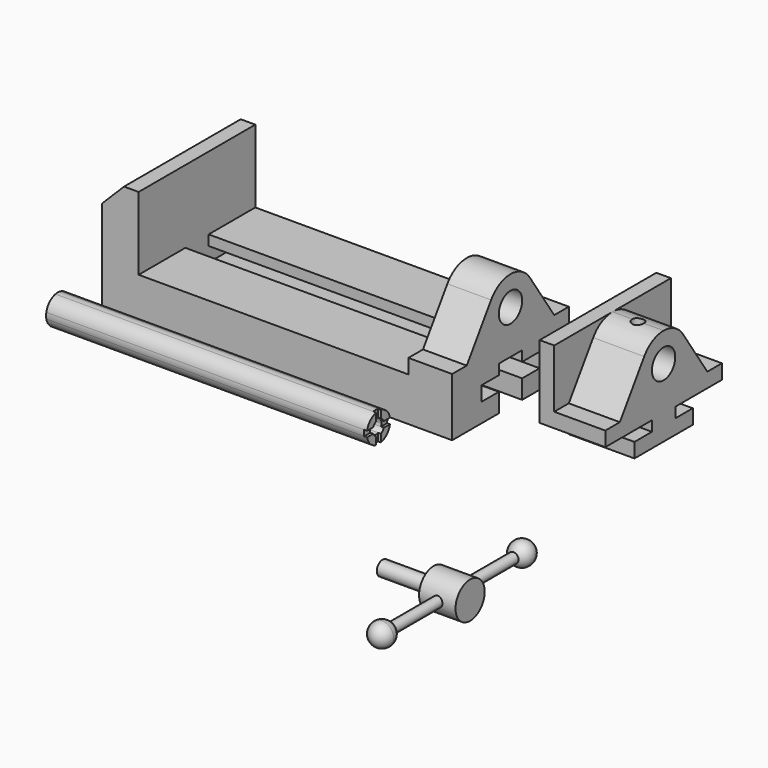
from build123d import *

# Parameters (mm, degrees)
F0_R      = 12.7
F1_DEPTH  = 38.1
F2_DEPTH  = 304.8
F3_W      = 127
F3_H      = 101.6
F4_DEPTH  = 31.75
F5_SIZE2  = 19.05
F5_SIZE   = 19.05
F7_R      = 12.7
F8_DEPTH  = 57.15
F9_DEPTH  = 12.7
F10_R     = 5.08
F11_DEPTH = 14.7602578338
F13_DEPTH = 279.4
F14_DEPTH = 25.4
F15_DEPTH = 2.54
F16_W     = 4.445
F16_H     = 15.875
F16_W_2   = 11.43
F16_W_3   = 44.45
F16_H_2   = 6.35


with BuildPart() as f1:
    # F0 (on Right) → F1 (new body)
    with BuildSketch(Plane.YZ):
        Polygon((0, 38.1), (0, 0), (50.8, 0), (50.8, 16.51), (31.75, 16.51), (31.75, 29.21), (50.8, 29.21), (50.8, 38.1), align=None)
        Polygon((76.2, 16.51), (76.2, 0), (127, 0), (127, 38.1), (76.2, 38.1), (76.2, 29.21), (95.25, 29.21), (95.25, 16.51), align=None)
        with BuildLine():
            Line((42.4065743945, 90.3501730104), (15.875, 50.8))
            Line((15.875, 50.8), (111.125, 50.8))
            Line((111.125, 50.8), (84.5934256055, 90.3501730104))
            ThreePointArc((84.5934256055, 90.3501730104), (63.5, 101.6), (42.4065743945, 90.3501730104))
        make_face()
        with Locations((63.5, 76.2)):
            Circle(F0_R, mode=Mode.SUBTRACT)
        Polygon((0, 50.8), (0, 38.1), (50.8, 38.1), (76.2, 38.1), (127, 38.1), (127, 50.8), (111.125, 50.8), (15.875, 50.8), align=None)
    extrude(amount=-F1_DEPTH)

    # F0 (on Right) → F2 (join)
    with BuildSketch(Plane.YZ):
        Polygon((76.2, 16.51), (76.2, 0), (127, 0), (127, 38.1), (76.2, 38.1), (76.2, 29.21), (95.25, 29.21), (95.25, 16.51), align=None)
        Polygon((0, 38.1), (0, 0), (50.8, 0), (50.8, 16.51), (31.75, 16.51), (31.75, 29.21), (50.8, 29.21), (50.8, 38.1), align=None)
    extrude(amount=-F2_DEPTH)

    # F3 (on face) → F4 (join)
    with BuildSketch(Plane(origin=(-304.8, 0, 0), x_dir=(0, -1, 0), z_dir=(-1, 0, 0))):
        with Locations((-63.5, 50.8)):
            Rectangle(F3_W, F3_H)
    extrude(amount=-F4_DEPTH)

    # F5
    f5_edges = [f1.edges().sort_by_distance(p)[0] for p in [
        (-304.8, 63.5, 101.6),
    ]]
    chamfer(f5_edges, length=F5_SIZE, length2=F5_SIZE2)


with BuildPart() as f8:
    # F7 (on offset) → F8 (new body)
    with BuildSketch(Plane.YZ.offset(76.2)):
        Polygon((111.125, 50.8), (15.875, 50.8), (0, 50.8), (0, 38.1), (50.8, 38.1), (76.2, 38.1), (127, 38.1), (127, 50.8), align=None)
        with BuildLine():
            Line((42.4065743945, 90.3501730104), (15.875, 50.8))
            Line((15.875, 50.8), (111.125, 50.8))
            Line((111.125, 50.8), (84.5934256055, 90.3501730104))
            ThreePointArc((84.5934256055, 90.3501730104), (75.4529411765, 98.6117647059), (63.5, 101.6))
            ThreePointArc((63.5, 101.6), (51.5470588235, 98.6117647059), (42.4065743945, 90.3501730104))
        make_face()
        with Locations((63.5, 76.2)):
            Circle(F7_R, mode=Mode.SUBTRACT)
        Polygon((76.2, 38.1), (50.8, 38.1), (50.8, 29.21), (31.75, 29.21), (31.75, 16.51), (50.8, 16.51), (76.2, 16.51), (95.25, 16.51), (95.25, 29.21), (76.2, 29.21), align=None)
    extrude(amount=F8_DEPTH)

    # F7 (on offset) → F9 (join)
    with BuildSketch(Plane.YZ.offset(76.2)):
        with BuildLine():
            Line((0, 50.8), (15.875, 50.8))
            Line((15.875, 50.8), (42.4065743945, 90.3501730104))
            ThreePointArc((42.4065743945, 90.3501730104), (51.5470588235, 98.6117647059), (63.5, 101.6))
            Line((63.5, 101.6), (0, 101.6))
            Line((0, 101.6), (0, 50.8))
        make_face()
        with BuildLine():
            Line((84.5934256055, 90.3501730104), (111.125, 50.8))
            Line((111.125, 50.8), (127, 50.8))
            Line((127, 50.8), (127, 101.6))
            Line((127, 101.6), (63.5, 101.6))
            ThreePointArc((63.5, 101.6), (75.4529411765, 98.6117647059), (84.5934256055, 90.3501730104))
        make_face()
    extrude(amount=F9_DEPTH)

    # F10 (on face) → F11 (cut, up to face)
    with BuildSketch(Plane.XY.offset(101.6)):
        with Locations((111.125, 63.5)):
            Circle(F10_R)
    extrude(amount=-F11_DEPTH, mode=Mode.SUBTRACT)


with BuildPart() as f13:
    # F12 (on Right) → F13 (new body)
    with BuildSketch(Plane.YZ):
        with BuildLine():
            ThreePointArc((-74.31538743, 44.9220035141), (-73.9192034755, 43.6793697515), (-73.7852585626, 42.3820035141))
            ThreePointArc((-73.7852585626, 42.3820035141), (-73.9192034755, 41.0846372766), (-74.31538743, 39.8420035141))
            Line((-74.31538743, 39.8420035141), (-67.6918506693, 39.8420035141))
            ThreePointArc((-67.6918506693, 39.8420035141), (-67.4995694194, 41.1055396966), (-67.4352585626, 42.3820035141))
            ThreePointArc((-67.4352585626, 42.3820035141), (-67.4995694194, 43.6584673315), (-67.6918506693, 44.9220035141))
            Line((-67.6918506693, 44.9220035141), (-74.31538743, 44.9220035141))
        make_face()
        with BuildLine():
            ThreePointArc((-77.5952585626, 48.2018746466), (-75.6451305021, 46.8721315746), (-74.31538743, 44.9220035141))
            Line((-74.31538743, 44.9220035141), (-67.6918506693, 44.9220035141))
            ThreePointArc((-67.6918506693, 44.9220035141), (-71.1550024415, 51.3622596351), (-77.5952585626, 54.8254114074))
            Line((-77.5952585626, 54.8254114074), (-77.5952585626, 48.2018746466))
        make_face()
        with BuildLine():
            Line((-67.6918506693, 39.8420035141), (-74.31538743, 39.8420035141))
            ThreePointArc((-74.31538743, 39.8420035141), (-75.6451305021, 37.8918754535), (-77.5952585626, 36.5621323815))
            Line((-77.5952585626, 36.5621323815), (-77.5952585626, 29.9385956207))
            ThreePointArc((-77.5952585626, 29.9385956207), (-71.1550024415, 33.401747393), (-67.6918506693, 39.8420035141))
        make_face()
        with BuildLine():
            ThreePointArc((-82.6752585626, 48.2018746466), (-80.1352585626, 48.7320035141), (-77.5952585626, 48.2018746466))
            Line((-77.5952585626, 48.2018746466), (-77.5952585626, 54.8254114074))
            ThreePointArc((-77.5952585626, 54.8254114074), (-80.1352585626, 55.0820035141), (-82.6752585626, 54.8254114074))
            Line((-82.6752585626, 54.8254114074), (-82.6752585626, 48.2018746466))
        make_face()
        with BuildLine():
            Line((-77.5952585626, 29.9385956207), (-77.5952585626, 36.5621323815))
            ThreePointArc((-77.5952585626, 36.5621323815), (-80.1352585626, 36.0320035141), (-82.6752585626, 36.5621323815))
            Line((-82.6752585626, 36.5621323815), (-82.6752585626, 29.9385956207))
            ThreePointArc((-82.6752585626, 29.9385956207), (-80.1352585626, 29.6820035141), (-77.5952585626, 29.9385956207))
        make_face()
        with BuildLine():
            ThreePointArc((-85.9551296952, 44.9220035141), (-84.6253866231, 46.8721315746), (-82.6752585626, 48.2018746466))
            Line((-82.6752585626, 48.2018746466), (-82.6752585626, 54.8254114074))
            ThreePointArc((-82.6752585626, 54.8254114074), (-89.1155146837, 51.3622596351), (-92.5786664559, 44.9220035141))
            Line((-92.5786664559, 44.9220035141), (-85.9551296952, 44.9220035141))
        make_face()
        with BuildLine():
            Line((-82.6752585626, 29.9385956207), (-82.6752585626, 36.5621323815))
            ThreePointArc((-82.6752585626, 36.5621323815), (-84.6253866231, 37.8918754535), (-85.9551296952, 39.8420035141))
            Line((-85.9551296952, 39.8420035141), (-92.5786664559, 39.8420035141))
            ThreePointArc((-92.5786664559, 39.8420035141), (-89.1155146837, 33.401747393), (-82.6752585626, 29.9385956207))
        make_face()
        with BuildLine():
            ThreePointArc((-85.9551296952, 39.8420035141), (-86.4852585626, 42.3820035141), (-85.9551296952, 44.9220035141))
            Line((-85.9551296952, 44.9220035141), (-92.5786664559, 44.9220035141))
            ThreePointArc((-92.5786664559, 44.9220035141), (-92.8352585626, 42.3820035141), (-92.5786664559, 39.8420035141))
            Line((-92.5786664559, 39.8420035141), (-85.9551296952, 39.8420035141))
        make_face()
        with BuildLine():
            ThreePointArc((-74.31538743, 39.8420035141), (-73.9192034755, 41.0846372766), (-73.7852585626, 42.3820035141))
            ThreePointArc((-73.7852585626, 42.3820035141), (-73.9192034755, 43.6793697515), (-74.31538743, 44.9220035141))
            ThreePointArc((-74.31538743, 44.9220035141), (-75.6451305021, 46.8721315746), (-77.5952585626, 48.2018746466))
            ThreePointArc((-77.5952585626, 48.2018746466), (-80.1352585626, 48.7320035141), (-82.6752585626, 48.2018746466))
            ThreePointArc((-82.6752585626, 48.2018746466), (-84.6253866231, 46.8721315746), (-85.9551296952, 44.9220035141))
            ThreePointArc((-85.9551296952, 44.9220035141), (-86.4852585626, 42.3820035141), (-85.9551296952, 39.8420035141))
            ThreePointArc((-85.9551296952, 39.8420035141), (-84.6253866231, 37.8918754535), (-82.6752585626, 36.5621323815))
            ThreePointArc((-82.6752585626, 36.5621323815), (-80.1352585626, 36.0320035141), (-77.5952585626, 36.5621323815))
            ThreePointArc((-77.5952585626, 36.5621323815), (-75.6451305021, 37.8918754535), (-74.31538743, 39.8420035141))
        make_face()
    extrude(amount=-F13_DEPTH)

    # F12 (on Right) → F14 (cut)
    with BuildSketch(Plane.YZ):
        with BuildLine():
            ThreePointArc((-74.31538743, 39.8420035141), (-73.9192034755, 41.0846372766), (-73.7852585626, 42.3820035141))
            ThreePointArc((-73.7852585626, 42.3820035141), (-73.9192034755, 43.6793697515), (-74.31538743, 44.9220035141))
            ThreePointArc((-74.31538743, 44.9220035141), (-75.6451305021, 46.8721315746), (-77.5952585626, 48.2018746466))
            ThreePointArc((-77.5952585626, 48.2018746466), (-80.1352585626, 48.7320035141), (-82.6752585626, 48.2018746466))
            ThreePointArc((-82.6752585626, 48.2018746466), (-84.6253866231, 46.8721315746), (-85.9551296952, 44.9220035141))
            ThreePointArc((-85.9551296952, 44.9220035141), (-86.4852585626, 42.3820035141), (-85.9551296952, 39.8420035141))
            ThreePointArc((-85.9551296952, 39.8420035141), (-84.6253866231, 37.8918754535), (-82.6752585626, 36.5621323815))
            ThreePointArc((-82.6752585626, 36.5621323815), (-80.1352585626, 36.0320035141), (-77.5952585626, 36.5621323815))
            ThreePointArc((-77.5952585626, 36.5621323815), (-75.6451305021, 37.8918754535), (-74.31538743, 39.8420035141))
        make_face()
    extrude(amount=-F14_DEPTH, mode=Mode.SUBTRACT)

    # F12 (on Right) → F15 (cut)
    with BuildSketch(Plane.YZ):
        with BuildLine():
            ThreePointArc((-82.6752585626, 48.2018746466), (-80.1352585626, 48.7320035141), (-77.5952585626, 48.2018746466))
            Line((-77.5952585626, 48.2018746466), (-77.5952585626, 54.8254114074))
            ThreePointArc((-77.5952585626, 54.8254114074), (-80.1352585626, 55.0820035141), (-82.6752585626, 54.8254114074))
            Line((-82.6752585626, 54.8254114074), (-82.6752585626, 48.2018746466))
        make_face()
        with BuildLine():
            ThreePointArc((-74.31538743, 44.9220035141), (-73.9192034755, 43.6793697515), (-73.7852585626, 42.3820035141))
            ThreePointArc((-73.7852585626, 42.3820035141), (-73.9192034755, 41.0846372766), (-74.31538743, 39.8420035141))
            Line((-74.31538743, 39.8420035141), (-67.6918506693, 39.8420035141))
            ThreePointArc((-67.6918506693, 39.8420035141), (-67.4995694194, 41.1055396966), (-67.4352585626, 42.3820035141))
            ThreePointArc((-67.4352585626, 42.3820035141), (-67.4995694194, 43.6584673315), (-67.6918506693, 44.9220035141))
            Line((-67.6918506693, 44.9220035141), (-74.31538743, 44.9220035141))
        make_face()
        with BuildLine():
            Line((-77.5952585626, 29.9385956207), (-77.5952585626, 36.5621323815))
            ThreePointArc((-77.5952585626, 36.5621323815), (-80.1352585626, 36.0320035141), (-82.6752585626, 36.5621323815))
            Line((-82.6752585626, 36.5621323815), (-82.6752585626, 29.9385956207))
            ThreePointArc((-82.6752585626, 29.9385956207), (-80.1352585626, 29.6820035141), (-77.5952585626, 29.9385956207))
        make_face()
        with BuildLine():
            ThreePointArc((-85.9551296952, 39.8420035141), (-86.4852585626, 42.3820035141), (-85.9551296952, 44.9220035141))
            Line((-85.9551296952, 44.9220035141), (-92.5786664559, 44.9220035141))
            ThreePointArc((-92.5786664559, 44.9220035141), (-92.8352585626, 42.3820035141), (-92.5786664559, 39.8420035141))
            Line((-92.5786664559, 39.8420035141), (-85.9551296952, 39.8420035141))
        make_face()
    extrude(amount=-F15_DEPTH, mode=Mode.SUBTRACT)


with BuildPart() as f17:
    # F16 (on Top) → F17 (revolve)
    with BuildSketch(Plane.XY):
        with BuildLine():
            Line((140.765233001, -100.0677298003), (145.210233001, -100.0677298003))
            Line((145.210233001, -100.0677298003), (145.210233001, -109.2037888522))
            ThreePointArc((145.210233001, -109.2037888522), (149.3787920796, -105.4558834729), (150.925233001, -100.0677298003))
            ThreePointArc((150.925233001, -100.0677298003), (147.9494378978, -92.8835249034), (140.765233001, -89.9077298003))
            Line((140.765233001, -89.9077298003), (140.765233001, -100.0677298003))
        make_face()
        with BuildLine():
            Line((145.210233001, -109.2037888522), (145.210233001, -100.0677298003))
            Line((145.210233001, -100.0677298003), (140.765233001, -100.0677298003))
            Line((140.765233001, -100.0677298003), (140.765233001, -110.2277298003))
            ThreePointArc((140.765233001, -110.2277298003), (143.0459390356, -109.9684358349), (145.210233001, -109.2037888522))
        make_face()
        with BuildLine():
            Line((145.210233001, -160.3927298003), (145.210233001, -109.2037888522))
            ThreePointArc((145.210233001, -109.2037888522), (143.0459390356, -109.9684358349), (140.765233001, -110.2277298003))
            Line((140.765233001, -110.2277298003), (140.765233001, -160.3927298003))
            Line((140.765233001, -160.3927298003), (145.210233001, -160.3927298003))
        make_face()
        with Locations((142.987733001, -168.3302298003)):
            Rectangle(F16_W, F16_H)
        with Locations((142.987733001, -184.2052298003)):
            Rectangle(F16_W, F16_H)
        with BuildLine():
            Line((145.210233001, -243.3316707484), (145.210233001, -192.1427298003))
            Line((145.210233001, -192.1427298003), (140.765233001, -192.1427298003))
            Line((140.765233001, -192.1427298003), (140.765233001, -242.3077298003))
            ThreePointArc((140.765233001, -242.3077298003), (143.0459390356, -242.5670237657), (145.210233001, -243.3316707484))
        make_face()
        with BuildLine():
            Line((145.210233001, -252.4677298003), (145.210233001, -243.3316707484))
            ThreePointArc((145.210233001, -243.3316707484), (143.0459390356, -242.5670237657), (140.765233001, -242.3077298003))
            Line((140.765233001, -242.3077298003), (140.765233001, -252.4677298003))
            Line((140.765233001, -252.4677298003), (145.210233001, -252.4677298003))
        make_face()
        with BuildLine():
            ThreePointArc((150.925233001, -252.4677298003), (149.3787920796, -247.0795761276), (145.210233001, -243.3316707484))
            Line((145.210233001, -243.3316707484), (145.210233001, -252.4677298003))
            Line((145.210233001, -252.4677298003), (140.765233001, -252.4677298003))
            Line((140.765233001, -252.4677298003), (140.765233001, -262.6277298003))
            ThreePointArc((140.765233001, -262.6277298003), (147.9494378978, -259.6519346971), (150.925233001, -252.4677298003))
        make_face()
    revolve(axis=Axis((140.765233001, -176.2677298003, 0), (0, -1, 0)))

    # F16 (on Top) → F18 (revolve)
    with BuildSketch(Plane.XY):
        with Locations((150.925233001, -168.3302298003)):
            Rectangle(F16_W_2, F16_H)
        Polygon((136.320233001, -176.2677298003), (136.320233001, -160.3927298003), (124.890233001, -160.3927298003), (124.890233001, -169.9177298003), (124.890233001, -176.2677298003), align=None)
        with Locations((102.665233001, -173.0927298003)):
            Rectangle(F16_W_3, F16_H_2)
        with Locations((142.987733001, -168.3302298003)):
            Rectangle(F16_W, F16_H)
        with Locations((138.542733001, -168.3302298003)):
            Rectangle(F16_W, F16_H)
    revolve(axis=Axis((118.540233001, -176.2677298003, 0), (-1, 0, 0)))


solid = Compound([f1.part, f8.part, f13.part, f17.part])
